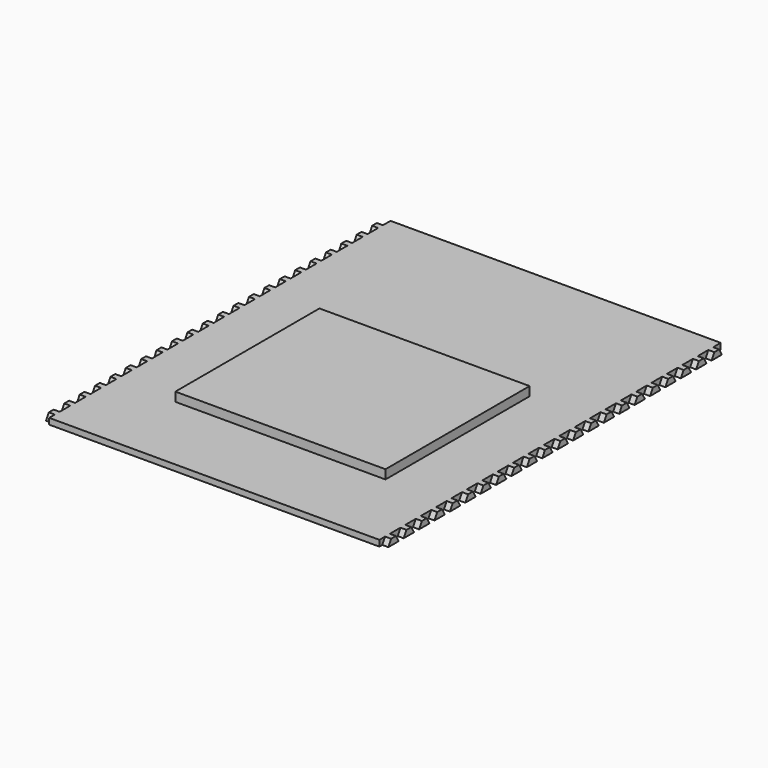
from build123d import *

# Parameters (mm, degrees)
SKETCH_W               = 110
SKETCH_H               = 142.126704
PAD_DEPTH              = 2
SKETCH001_W            = 70
SKETCH001_H            = 60
PAD001_DEPTH           = 3
PAD002_DEPTH           = 2
LINEARPATTERN_COUNT    = 22
LINEARPATTERN_PITCH    = 6.409401
PAD003_DEPTH           = 2
LINEARPATTERN001_COUNT = 22
LINEARPATTERN001_PITCH = 6.409401


with BuildPart() as part:
    # Sketch → Pad (new body)
    with BuildSketch(Plane.XY):
        with Locations((55, -71.063352)):
            Rectangle(SKETCH_W, SKETCH_H)
    extrude(amount=PAD_DEPTH)

    # Sketch001 (on Face6 of Pad) → Pad001 (join)
    with BuildSketch(Plane.XY.offset(2)):
        with Locations((55, -84.580159)):
            Rectangle(SKETCH001_W, SKETCH001_H)
    extrude(amount=PAD001_DEPTH)

    # Sketch002 (on Face3 of Pad001) → Pad002 (join)
    with BuildSketch(Plane.YZ.offset(110)):
        Polygon((-6.309401, 0), (-5.154701, 2), (-3.154701, 2), (-2, 0), align=None)
    pad002 = extrude(amount=PAD002_DEPTH)

    # LinearPattern: Pad002 ×22
    with Locations(*[(0, -i * LINEARPATTERN_PITCH, 0) for i in range(1, LINEARPATTERN_COUNT)]):
        add(pad002)

    # Sketch003 (on Face2 of LinearPattern) → Pad003 (join)
    with BuildSketch(Plane(origin=(0, 0, 0), x_dir=(0, -1, 0), z_dir=(-1, 0, 0))):
        Polygon((2, 0), (3.154701, 2), (5.154701, 2), (6.309401, 0), align=None)
    pad003 = extrude(amount=PAD003_DEPTH)

    # LinearPattern001: Pad003 ×22
    with Locations(*[(0, -i * LINEARPATTERN001_PITCH, 0) for i in range(1, LINEARPATTERN001_COUNT)]):
        add(pad003)


solid = part.part
